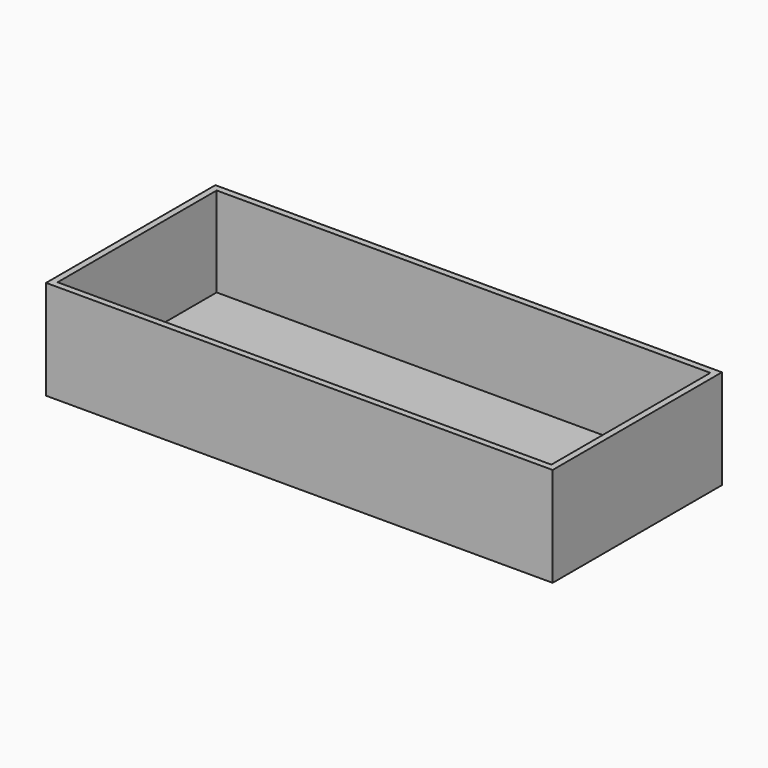
from build123d import *

# Parameters (mm, degrees)
F0_W     = 158
F0_H     = 66
F1_DEPTH = 3
F2_W     = 154
F2_H     = 2
F2_W_2   = 2
F2_H_2   = 62
F3_DEPTH = 28


with BuildPart() as f1:
    # F0 (on Top) → F1 (new body)
    with BuildSketch(Plane.XY):
        with Locations((35.273872, -22.739549)):
            Rectangle(F0_W, F0_H)
    extrude(amount=F1_DEPTH)

    # F2 (on face) → F3 (join)
    with BuildSketch(Plane.XY.offset(3)):
        with Locations((35.273872, -54.739549)):
            Rectangle(F2_W, F2_H)
        with Locations((-42.726128, -54.739549)):
            Rectangle(F2_W_2, F2_H)
        with Locations((-42.726128, -22.739549)):
            Rectangle(F2_W_2, F2_H_2)
        with Locations((-42.726128, 9.260451)):
            Rectangle(F2_W_2, F2_H)
        with Locations((35.273872, 9.260451)):
            Rectangle(F2_W, F2_H)
        with Locations((113.273872, 9.260451)):
            Rectangle(F2_W_2, F2_H)
        with Locations((113.273872, -22.739549)):
            Rectangle(F2_W_2, F2_H_2)
        with Locations((113.273872, -54.739549)):
            Rectangle(F2_W_2, F2_H)
    extrude(amount=F3_DEPTH)


solid = f1.part
